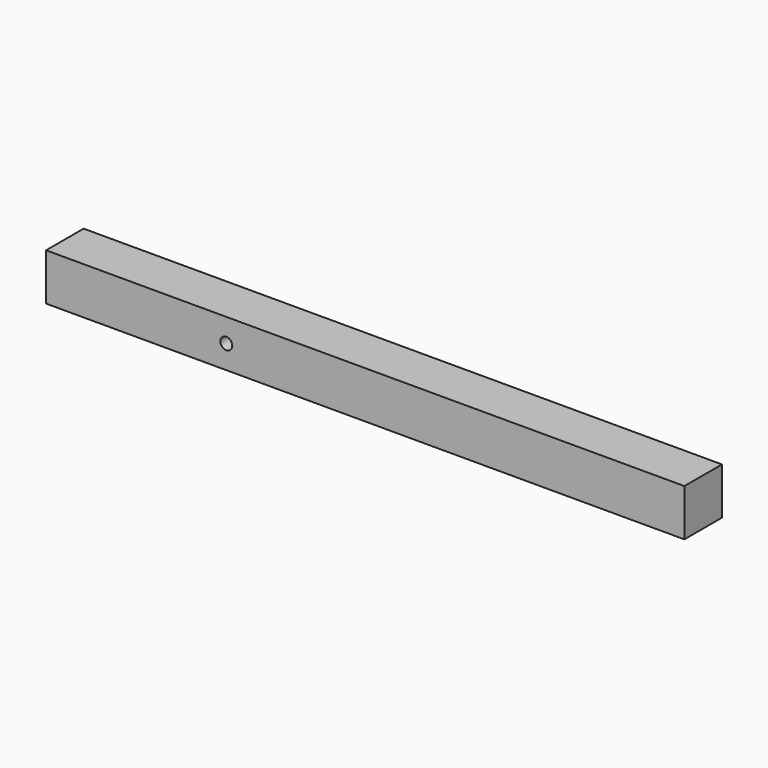
from build123d import *

# Parameters (mm, degrees)
F0_W     = 12.5
F0_H     = 12.5
F1_DEPTH = 170
F3_D     = 3.175


with BuildPart() as f1:
    # F0 (on Right) → F1 (new body)
    with BuildSketch(Plane.YZ):
        Rectangle(F0_W, F0_H)
    extrude(amount=F1_DEPTH)

    # F3 (through all)
    with Locations(Plane.XZ.offset(6.25)):
        with Locations((48, 0)):
            Hole(F3_D / 2)


solid = f1.part
